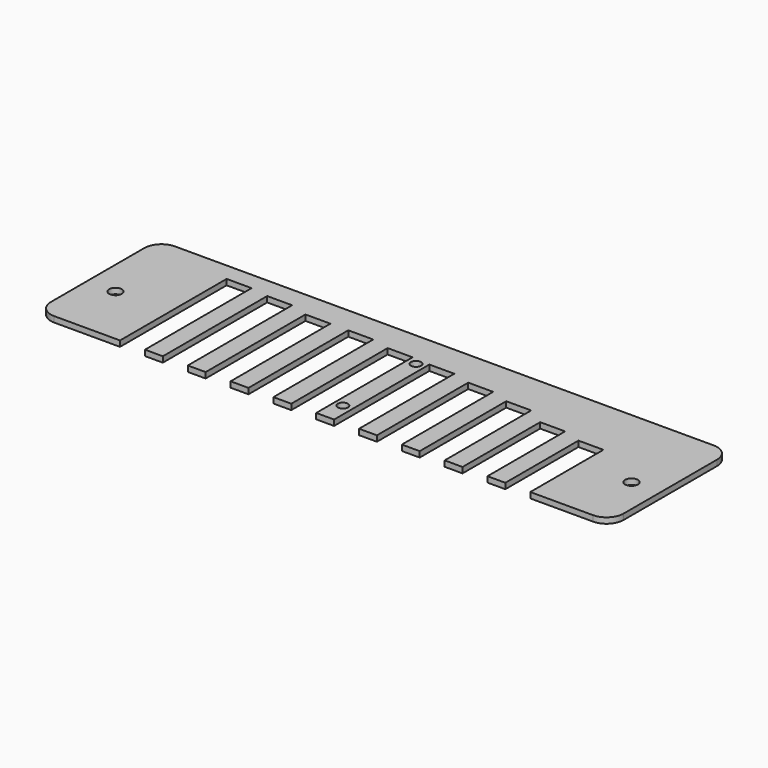
from build123d import *

# Parameters (mm, degrees)
F0_R     = 0.9
F0_R_2   = 1.125
F1_DEPTH = 1
F2_ANGLE = 90
F3_ANGLE = -90


with BuildPart() as f1:
    # F0 (on Right) → F1 (new body)
    with BuildSketch(Plane.YZ):
        with BuildLine():
            ThreePointArc((0, 3), (0.87868, 0.87868), (3, 0))
            Line((3, 0), (98, 0))
            ThreePointArc((98, 0), (100.12132, 0.87868), (101, 3))
            Line((101, 3), (101, 23.63))
            ThreePointArc((101, 23.63), (100.12132, 25.75132), (98, 26.63))
            Line((98, 26.63), (86.95, 26.63))
            Line((86.95, 26.63), (86.95, 10.52))
            Line((86.95, 10.52), (82.55, 10.52))
            Line((82.55, 10.52), (82.55, 26.63))
            Line((82.55, 26.63), (79.4, 26.63))
            Line((79.4, 26.63), (79.4, 9.52))
            Line((79.4, 9.52), (75, 9.52))
            Line((75, 9.52), (75, 26.63))
            Line((75, 26.63), (71.85, 26.63))
            Line((71.85, 26.63), (71.85, 7.56))
            Line((71.85, 7.56), (67.45, 7.56))
            Line((67.45, 7.56), (67.45, 26.63))
            Line((67.45, 26.63), (64.3, 26.63))
            Line((64.3, 26.63), (64.3, 6.5))
            Line((64.3, 6.5), (59.9, 6.5))
            Line((59.9, 6.5), (59.9, 26.63))
            Line((59.9, 26.63), (56.75, 26.63))
            Line((56.75, 26.63), (56.75, 5.63))
            Line((56.75, 5.63), (52.35, 5.63))
            Line((52.35, 5.63), (52.35, 26.63))
            Line((52.35, 26.63), (49.2, 26.63))
            Line((49.2, 26.63), (49.2, 5.39))
            Line((49.2, 5.39), (44.8, 5.39))
            Line((44.8, 5.39), (44.8, 26.63))
            Line((44.8, 26.63), (41.65, 26.63))
            Line((41.65, 26.63), (41.65, 4.63))
            Line((41.65, 4.63), (37.25, 4.63))
            Line((37.25, 4.63), (37.25, 26.63))
            Line((37.25, 26.63), (34.1, 26.63))
            Line((34.1, 26.63), (34.1, 4.63))
            Line((34.1, 4.63), (29.7, 4.63))
            Line((29.7, 4.63), (29.7, 26.63))
            Line((29.7, 26.63), (26.55, 26.63))
            Line((26.55, 26.63), (26.55, 3.63))
            Line((26.55, 3.63), (22.15, 3.63))
            Line((22.15, 3.63), (22.15, 26.63))
            Line((22.15, 26.63), (19, 26.63))
            Line((19, 26.63), (19, 3.13))
            Line((19, 3.13), (14.6, 3.13))
            Line((14.6, 3.13), (14.6, 26.63))
            Line((14.6, 26.63), (3, 26.63))
            ThreePointArc((3, 26.63), (0.87868, 25.75132), (0, 23.63))
            Line((0, 23.63), (0, 3))
        make_face()
        with Locations((50.800736, 6.63)):
            Circle(F0_R, mode=Mode.SUBTRACT)
        with Locations((5, 15.63)):
            Circle(F0_R_2, mode=Mode.SUBTRACT)
        with Locations((96, 15.63)):
            Circle(F0_R_2, mode=Mode.SUBTRACT)
        with Locations((50.7, 22.63)):
            Circle(F0_R, mode=Mode.SUBTRACT)
    extrude(amount=F1_DEPTH)


with BuildPart() as f1_1:
    # F2: moved
    add(f1.part.rotate(Axis((1, 50.5, 0), (0, 1, 0)), F2_ANGLE))


with BuildPart() as f1_2:
    # F3: moved
    add(f1_1.part.rotate(Axis((4, 3, 1), (0, 0, 1)), F3_ANGLE))


with BuildPart() as f1_3:
    # F4: moved
    add(f1_2.part.moved(Location((0, -6, 0))))


with BuildPart() as f1_4:
    # F5: moved
    add(f1_3.part.moved(Location((-1, 0, 0))))


solid = f1_4.part
